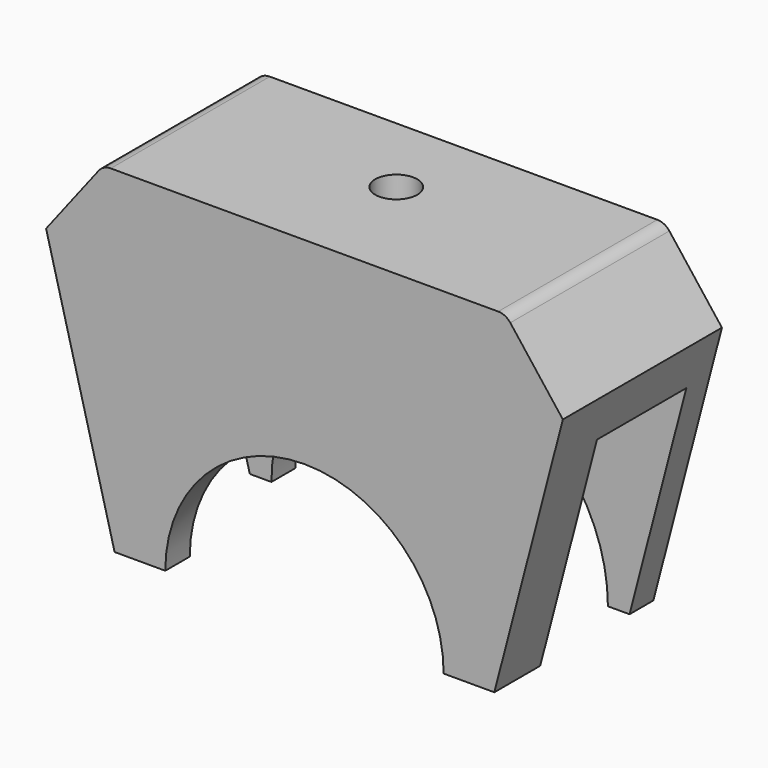
from build123d import *

# Parameters (mm, degrees)
PAD040_DEPTH            = 7.3
BODY031_PLACEMENT_ANGLE = 90
PAD042_DEPTH            = 13
SKETCH139_R             = 11
POCKET086_DEPTH         = 11
SKETCH140_R             = 9.1
POCKET087_DEPTH         = 5
SKETCH141_R             = 1.375
POCKET088_DEPTH         = 5
CHAMFER021_SIZE         = 5
FILLET005_R             = 1


with BuildPart() as obj1:
    # Sketch132 → Pad040 (new body)
    with BuildSketch(Plane.XY):
        with BuildLine():
            ThreePointArc((30, -7.93752), (0, 18.8989421975), (-30, -7.93752))
            Line((-30, -7.93752), (30, -7.93752))
        make_face()
    extrude(amount=PAD040_DEPTH)


with BuildPart() as obj1_1:
    # Body031 placement: moved
    add(obj1.part.moved(Location((0, -1.95, 0))).rotate(Axis((0, -1.95, 0), (1, 0, 0)), BODY031_PLACEMENT_ANGLE))


with BuildPart() as grip_superior:
    # Sketch138 → Pad042 (new body)
    with BuildSketch(Plane.XZ):
        Polygon((-12.413768, 0), (12.413768, 0), (18.157619, 22), (-18.157619, 22), align=None)
    extrude(amount=PAD042_DEPTH)

    # Sketch139 (on Face5 of Pad042) → Pocket086 (cut)
    with BuildSketch(Plane(origin=(0, 0, 0), x_dir=(1, 0, 0), z_dir=(0, 1, 0))):
        Circle(SKETCH139_R)
    extrude(amount=-POCKET086_DEPTH, mode=Mode.SUBTRACT)

    # Sketch140 (on Face6 of Pocket086) → Pocket087 (cut)
    with BuildSketch(Plane.XZ.offset(13)):
        Circle(SKETCH140_R)
    extrude(amount=-POCKET087_DEPTH, mode=Mode.SUBTRACT)

    # Boolean: cut obj1
    add(obj1_1.part, mode=Mode.SUBTRACT)

    # Sketch141 (on Face6 of Boolean) → Pocket088 (cut)
    with BuildSketch(Plane.XY.offset(22)):
        with Locations((0, -5.5)):
            Circle(SKETCH141_R)
    extrude(amount=-POCKET088_DEPTH, mode=Mode.SUBTRACT)

    # Chamfer021
    chamfer021_edges = [grip_superior.edges().sort_by_distance(p)[0] for p in [
        (-18.157619, -6.5, 22),
        (18.157619, -6.5, 22),
    ]]
    chamfer(chamfer021_edges, length=CHAMFER021_SIZE)

    # Fillet005
    fillet005_edges = [grip_superior.edges().sort_by_distance(p)[0] for p in [
        (-13.157619, -6.5, 22),
        (13.157619, -6.5, 22),
    ]]
    fillet(fillet005_edges, radius=FILLET005_R)


solid = grip_superior.part
